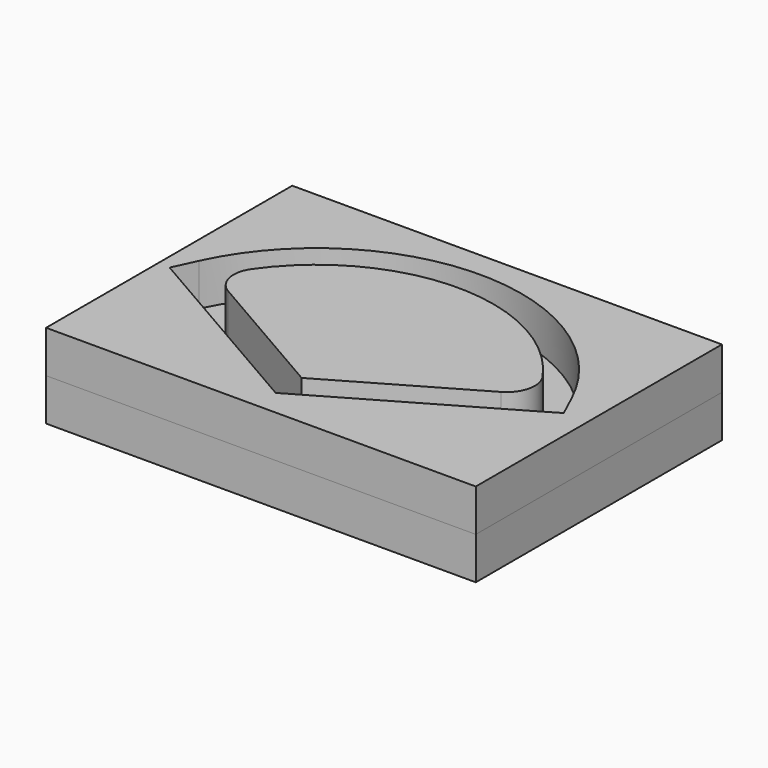
from build123d import *

# Parameters (mm, degrees)
F0_W     = 30.564818
F0_H     = 21.884227
F1_DEPTH = 3
F2_W     = 30.564818
F2_H     = 21.884227
F3_DEPTH = 3
F4_R     = 2
F5_R     = 2


with BuildPart() as f1:
    # F0 (on Top) → F1 (new body)
    with BuildSketch(Plane.XY):
        with Locations((21.160407, 6.785568)):
            Rectangle(F0_W, F0_H)
        with BuildLine():
            ThreePointArc((7.483872, 7.44112), (20.729937, 15.900943), (33.976001, 7.44112))
            Line((33.976001, 7.44112), (34.737862, 5.797575))
            Line((34.737862, 5.797575), (33.161472, 4.867949))
            Line((33.161472, 4.867949), (21.729937, -1.732051))
            Line((21.729937, -1.732051), (20.729937, -2.309401))
            Line((20.729937, -2.309401), (19.729937, -1.732051))
            Line((19.729937, -1.732051), (18.698691, -1.136661))
            Line((18.698691, -1.136661), (8.298401, 4.867949))
            Line((8.298401, 4.867949), (6.714882, 5.782195))
            Line((6.714882, 5.782195), (7.483872, 7.44112))
        make_face(mode=Mode.SUBTRACT)
        with BuildLine():
            Line((9.298401, 6.6), (20.729937, 0))
            Line((20.729937, 0), (32.161472, 6.6))
            ThreePointArc((32.161472, 6.6), (20.729937, 13.900943), (9.298401, 6.6))
        make_face()
    extrude(amount=F1_DEPTH)

    # F4
    f4_edges = [f1.edges().sort_by_distance(p)[0] for p in [
        (9.298401, 6.6, 1.5),
    ]]
    fillet(f4_edges, radius=F4_R)

    # F5
    f5_edges = [f1.edges().sort_by_distance(p)[0] for p in [
        (32.161472, 6.6, 1.5),
    ]]
    fillet(f5_edges, radius=F5_R)


with BuildPart() as f3:
    # F2 (on face) → F3 (new body)
    with BuildSketch(Plane(origin=(0, 0, 0), x_dir=(1, 0, 0), z_dir=(0, 0, -1))):
        with Locations((21.160407, -6.785568)):
            Rectangle(F2_W, F2_H)
    extrude(amount=F3_DEPTH)


solid = Compound([f1.part, f3.part])
